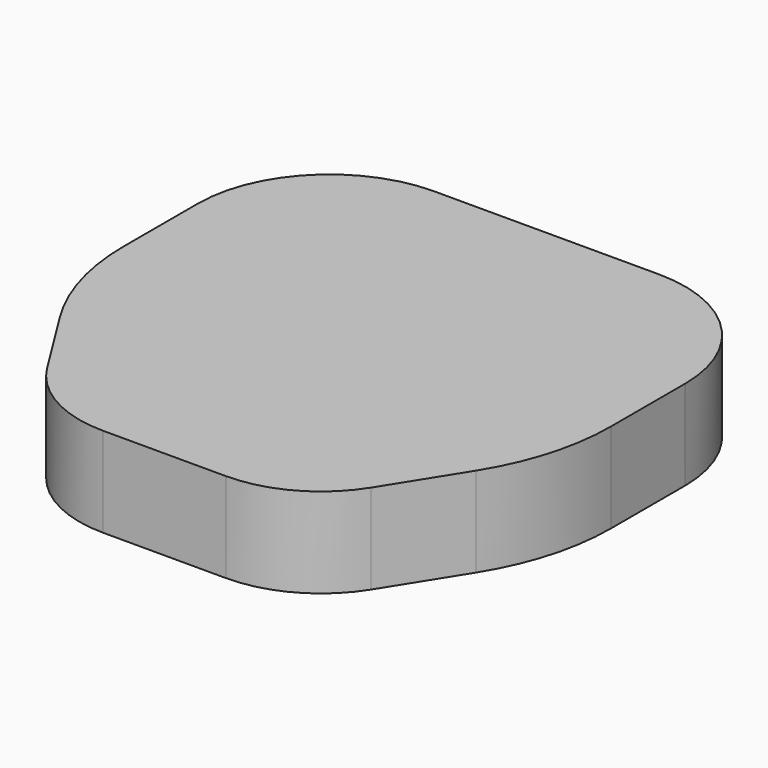
from build123d import *

# Parameters (mm, degrees)
F1_DEPTH = 3
F2_DEPTH = 11


with BuildPart() as f1:
    # F0 (on Top) → F1 (new body)
    with BuildSketch(Plane.XY):
        with BuildLine():
            Line((-32.4449982681, -52.8337302731), (-25.2662257445, -64.3106060606))
            ThreePointArc((-25.2662257445, -64.3106060606), (-18.5470907326, -70.6824938146), (-9.5817745675, -73))
            Line((-9.5817745675, -73), (9.5817745675, -73))
            ThreePointArc((9.5817745675, -73), (18.5470907326, -70.6824938146), (25.2662257445, -64.3106060606))
            Line((25.2662257445, -64.3106060606), (32.4449982681, -52.8337302731))
            ThreePointArc((32.4449982681, -52.8337302731), (36.5837742895, -43.5463727418), (38, -33.4776696671))
            Line((38, -33.4776696671), (38, -19))
            ThreePointArc((38, -19), (31.9956890143, -4.5043109857), (17.5, 1.5))
            Line((17.5, 1.5), (0, 1.5))
            Line((0, 1.5), (-17.5, 1.5))
            ThreePointArc((-17.5, 1.5), (-31.9956890143, -4.5043109857), (-38, -19))
            Line((-38, -19), (-38, -33.4776696671))
            ThreePointArc((-38, -33.4776696671), (-36.5837742895, -43.5463727418), (-32.4449982681, -52.8337302731))
        make_face()
        with BuildLine():
            Line((-17.5, 0), (0, 0))
            Line((0, 0), (17.5, 0))
            ThreePointArc((17.5, 0), (30.9350288425, -5.5649711575), (36.5, -19))
            Line((36.5, -19), (36.5, -33.4776696671))
            ThreePointArc((36.5, -33.4776696671), (35.1419753461, -43.1325904236), (31.1732860105, -52.0382757277))
            Line((31.1732860105, -52.0382757277), (23.9945134869, -63.5151515152))
            ThreePointArc((23.9945134869, -63.5151515152), (17.8201732057, -69.3703997216), (9.5817745675, -71.5))
            Line((9.5817745675, -71.5), (-9.5817745675, -71.5))
            ThreePointArc((-9.5817745675, -71.5), (-17.8201732057, -69.3703997216), (-23.9945134869, -63.5151515152))
            Line((-23.9945134869, -63.5151515152), (-31.1732860105, -52.0382757277))
            ThreePointArc((-31.1732860105, -52.0382757277), (-35.1419753461, -43.1325904236), (-36.5, -33.4776696671))
            Line((-36.5, -33.4776696671), (-36.5, -19))
            ThreePointArc((-36.5, -19), (-30.9350288425, -5.5649711575), (-17.5, 0))
        make_face(mode=Mode.SUBTRACT)
        with BuildLine():
            Line((17.5, 0), (0, 0))
            Line((0, 0), (-17.5, 0))
            ThreePointArc((-17.5, 0), (-30.9350288425, -5.5649711575), (-36.5, -19))
            Line((-36.5, -19), (-36.5, -33.4776696671))
            ThreePointArc((-36.5, -33.4776696671), (-35.1419753461, -43.1325904236), (-31.1732860105, -52.0382757277))
            Line((-31.1732860105, -52.0382757277), (-23.9945134869, -63.5151515152))
            ThreePointArc((-23.9945134869, -63.5151515152), (-17.8201732057, -69.3703997216), (-9.5817745675, -71.5))
            Line((-9.5817745675, -71.5), (9.5817745675, -71.5))
            ThreePointArc((9.5817745675, -71.5), (17.8201732057, -69.3703997216), (23.9945134869, -63.5151515152))
            Line((23.9945134869, -63.5151515152), (31.1732860105, -52.0382757277))
            ThreePointArc((31.1732860105, -52.0382757277), (35.1419753461, -43.1325904236), (36.5, -33.4776696671))
            Line((36.5, -33.4776696671), (36.5, -19))
            ThreePointArc((36.5, -19), (30.9350288425, -5.5649711575), (17.5, 0))
        make_face()
    extrude(amount=F1_DEPTH)

    # F0 (on Top) → F2 (join)
    with BuildSketch(Plane.XY):
        with BuildLine():
            Line((-32.4449982681, -52.8337302731), (-25.2662257445, -64.3106060606))
            ThreePointArc((-25.2662257445, -64.3106060606), (-18.5470907326, -70.6824938146), (-9.5817745675, -73))
            Line((-9.5817745675, -73), (9.5817745675, -73))
            ThreePointArc((9.5817745675, -73), (18.5470907326, -70.6824938146), (25.2662257445, -64.3106060606))
            Line((25.2662257445, -64.3106060606), (32.4449982681, -52.8337302731))
            ThreePointArc((32.4449982681, -52.8337302731), (36.5837742895, -43.5463727418), (38, -33.4776696671))
            Line((38, -33.4776696671), (38, -19))
            ThreePointArc((38, -19), (31.9956890143, -4.5043109857), (17.5, 1.5))
            Line((17.5, 1.5), (0, 1.5))
            Line((0, 1.5), (-17.5, 1.5))
            ThreePointArc((-17.5, 1.5), (-31.9956890143, -4.5043109857), (-38, -19))
            Line((-38, -19), (-38, -33.4776696671))
            ThreePointArc((-38, -33.4776696671), (-36.5837742895, -43.5463727418), (-32.4449982681, -52.8337302731))
        make_face()
        with BuildLine():
            Line((-17.5, 0), (0, 0))
            Line((0, 0), (17.5, 0))
            ThreePointArc((17.5, 0), (30.9350288425, -5.5649711575), (36.5, -19))
            Line((36.5, -19), (36.5, -33.4776696671))
            ThreePointArc((36.5, -33.4776696671), (35.1419753461, -43.1325904236), (31.1732860105, -52.0382757277))
            Line((31.1732860105, -52.0382757277), (23.9945134869, -63.5151515152))
            ThreePointArc((23.9945134869, -63.5151515152), (17.8201732057, -69.3703997216), (9.5817745675, -71.5))
            Line((9.5817745675, -71.5), (-9.5817745675, -71.5))
            ThreePointArc((-9.5817745675, -71.5), (-17.8201732057, -69.3703997216), (-23.9945134869, -63.5151515152))
            Line((-23.9945134869, -63.5151515152), (-31.1732860105, -52.0382757277))
            ThreePointArc((-31.1732860105, -52.0382757277), (-35.1419753461, -43.1325904236), (-36.5, -33.4776696671))
            Line((-36.5, -33.4776696671), (-36.5, -19))
            ThreePointArc((-36.5, -19), (-30.9350288425, -5.5649711575), (-17.5, 0))
        make_face(mode=Mode.SUBTRACT)
    extrude(amount=-F2_DEPTH)


solid = f1.part
